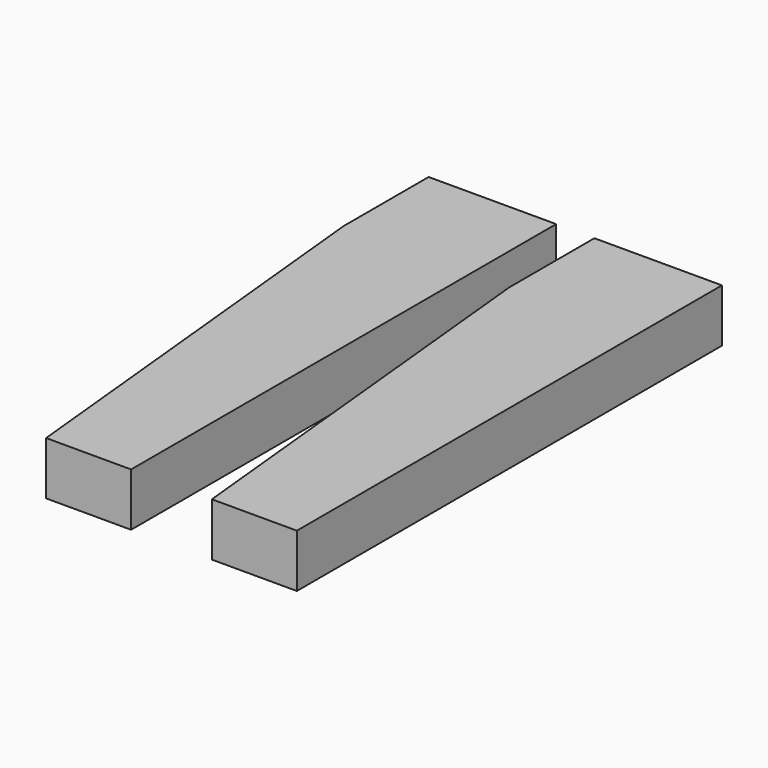
from build123d import *

# Parameters (mm, degrees)
F1_DEPTH = 25
F2_W     = 30
F2_H     = 10
F3_DEPTH = 25
F4_R     = 5
F5_DEPTH = 25
F6_W     = 10
F6_H     = 20
F7_DEPTH = 10


with BuildPart() as f1:
    # F0 (on Top) → F1 (new body)
    with BuildSketch(Plane.XY):
        Polygon((30, -125), (30, 125), (-30, 125), (-30, 75), (-10, -125), align=None)
    extrude(amount=F1_DEPTH)

    # F2 (on face) → F3 (cut)
    with BuildSketch(Plane(origin=(-30, 0, 0), x_dir=(0, -1, 0), z_dir=(-1, 0, 0))):
        with Locations((-100, 12.5)):
            Rectangle(F2_W, F2_H)
    extrude(amount=-F3_DEPTH, mode=Mode.SUBTRACT)

    # F4 (on face) → F5 (cut)
    with BuildSketch(Plane(origin=(0, 125, 0), x_dir=(-1, 0, 0), z_dir=(0, 1, 0))):
        with Locations((-15, 12.5)):
            Circle(F4_R)
    extrude(amount=-F5_DEPTH, mode=Mode.SUBTRACT)

    # F6 (on face) → F7 (cut)
    with BuildSketch(Plane(origin=(0, 0, 0), x_dir=(1, 0, 0), z_dir=(0, 0, -1))):
        with Locations((10, 25)):
            Rectangle(F6_W, F6_H)
    extrude(amount=-F7_DEPTH, mode=Mode.SUBTRACT)


with BuildPart() as f8_1:
    # F8: copy of F1
    add(f1.part.moved(Location((78, 0, 0))))


solid = Compound([f1.part, f8_1.part])
